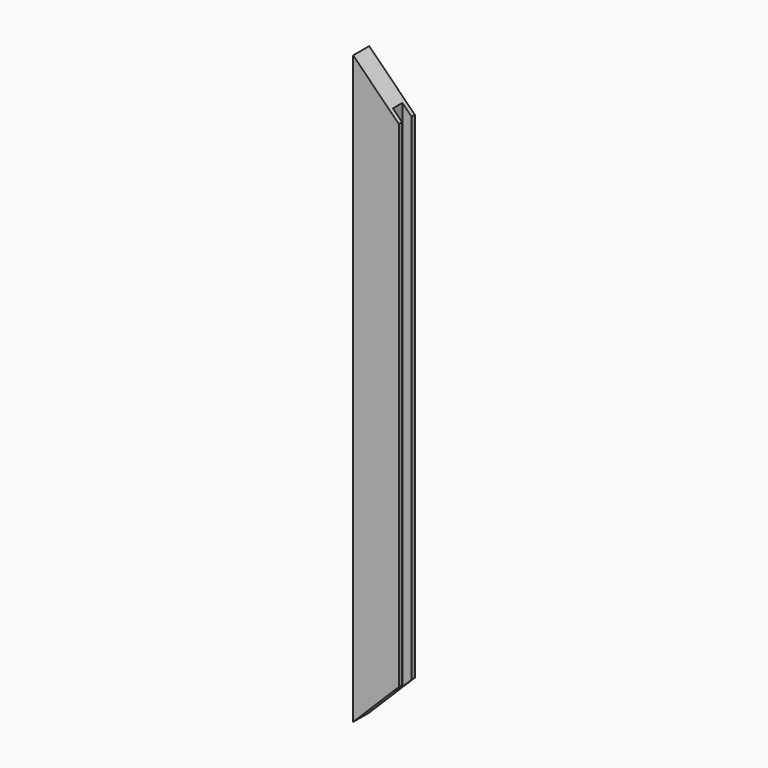
from build123d import *

# Parameters (mm, degrees)
F1_DEPTH = 22
F2_W     = 13
F2_H     = 581.431769
F3_DEPTH = 10


with BuildPart() as f1:
    # F0 (on Front) → F1 (new body)
    with BuildSketch(Plane.XZ):
        Polygon((0, 272), (-50, 322), (-50, -322), (0, -272), align=None)
    extrude(amount=F1_DEPTH)

    # F2 (on face) → F3 (cut)
    with BuildSketch(Plane.YZ):
        with Locations((-11, -5.08663)):
            Rectangle(F2_W, F2_H)
    extrude(amount=-F3_DEPTH, mode=Mode.SUBTRACT)


solid = f1.part
